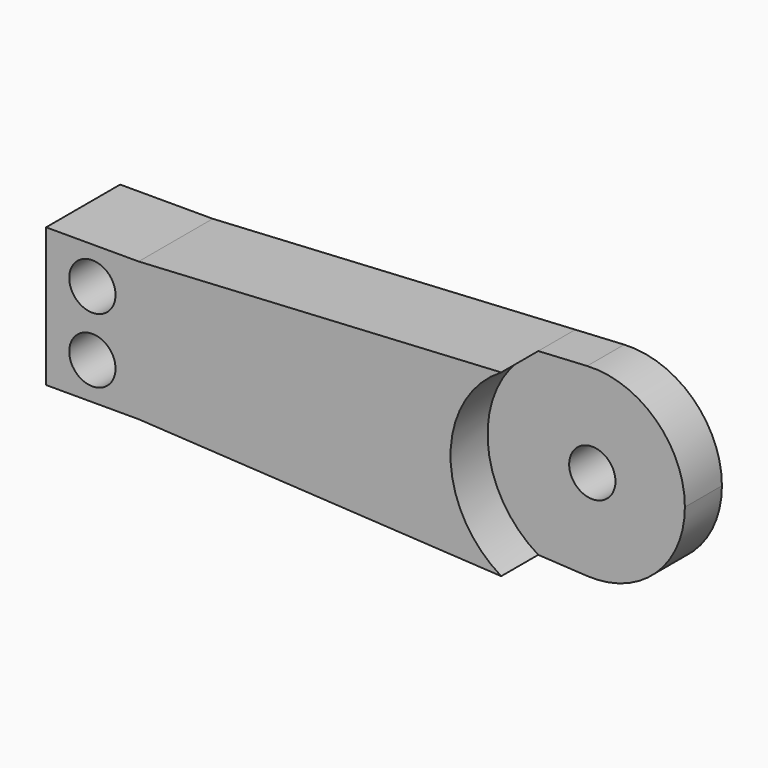
from build123d import *

# Parameters (mm, degrees)
F0_R     = 6.35
F0_W     = 25.4
F0_H     = 38.1
F1_DEPTH = 12.7
F2_DEPTH = 25.4


with BuildPart() as f1:
    # F0 (on Front) → F1 (new body)
    with BuildSketch(Plane.XZ):
        with BuildLine():
            ThreePointArc((-1.41771, -25.360404), (17.452079, -18.454943), (25.4, 0))
            ThreePointArc((25.4, 0), (17.452079, 18.454943), (-1.41771, 25.360404))
            ThreePointArc((-1.41771, 25.360404), (-25.4, 0), (-1.41771, -25.360404))
        make_face()
        Circle(F0_R, mode=Mode.SUBTRACT)
        with BuildLine():
            ThreePointArc((-1.41771, -25.360404), (-25.4, 0), (-1.41771, 25.360404))
            Line((-1.41771, 25.360404), (-14.828552, 24.610704))
            ThreePointArc((-14.828552, 24.610704), (-28.732781, 0), (-14.828552, -24.610704))
            Line((-14.828552, -24.610704), (-1.41771, -25.360404))
        make_face()
        with BuildLine():
            ThreePointArc((-14.828552, -24.610704), (-28.732781, 0), (-14.828552, 24.610704))
            Line((-14.828552, 24.610704), (-114.3, 19.05))
            Line((-114.3, 19.05), (-114.3, -19.05))
            Line((-114.3, -19.05), (-14.828552, -24.610704))
        make_face()
        with Locations((-127, 0)):
            Rectangle(F0_W, F0_H)
        with Locations((-127, -8.89)):
            Circle(F0_R, mode=Mode.SUBTRACT)
        with Locations((-127, 8.89)):
            Circle(F0_R, mode=Mode.SUBTRACT)
    extrude(amount=F1_DEPTH)

    # F0 (on Front) → F2 (join)
    with BuildSketch(Plane.XZ):
        with BuildLine():
            ThreePointArc((-14.828552, -24.610704), (-28.732781, 0), (-14.828552, 24.610704))
            Line((-14.828552, 24.610704), (-114.3, 19.05))
            Line((-114.3, 19.05), (-114.3, -19.05))
            Line((-114.3, -19.05), (-14.828552, -24.610704))
        make_face()
        with Locations((-127, 0)):
            Rectangle(F0_W, F0_H)
        with Locations((-127, -8.89)):
            Circle(F0_R, mode=Mode.SUBTRACT)
        with Locations((-127, 8.89)):
            Circle(F0_R, mode=Mode.SUBTRACT)
    extrude(amount=F2_DEPTH)


solid = f1.part
